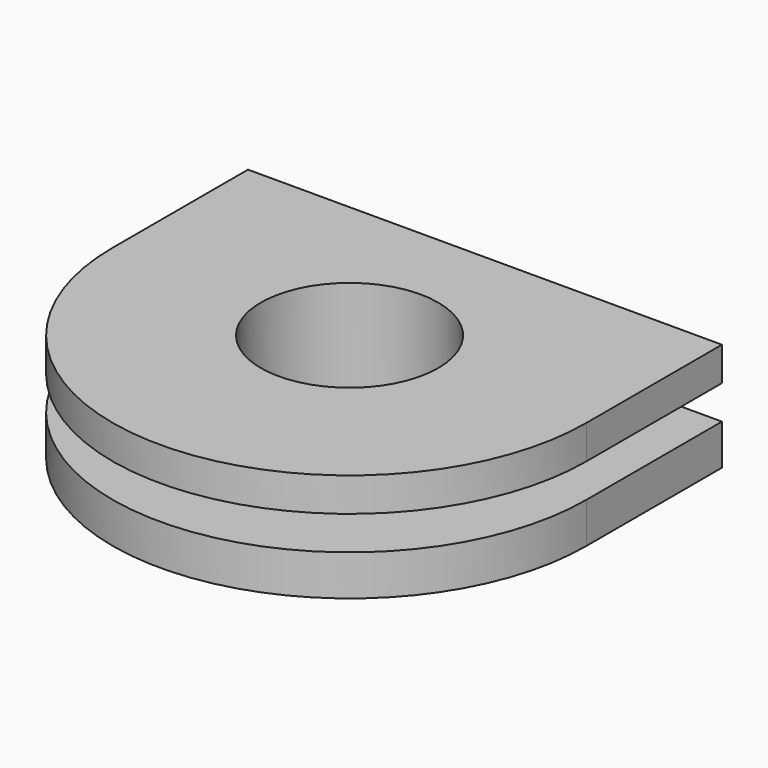
from build123d import *

# Parameters (mm, degrees)
PAD_DEPTH    = 3
PAD001_DEPTH = 2.5
PAD002_DEPTH = 2.5
SKETCH004_R  = 6.55
POCKET_DEPTH = 8.001


with BuildPart() as part:
    # Sketch001 → Pad (new body)
    with BuildSketch(Plane.XY):
        with BuildLine():
            Line((-17.5, 0), (17.5, 0))
            Line((17.5, 0), (17.5, -12.5))
            ThreePointArc((-17.5, -12.5), (0, -30), (17.5, -12.5))
            Line((-17.5, -12.5), (-17.5, 0))
        make_face()
    extrude(amount=PAD_DEPTH)

    # Sketch002 (on Face6 of Pad) → Pad001 (join)
    with BuildSketch(Plane.XY.offset(3)):
        with BuildLine():
            Line((11.5, 0), (11.5, -12.5))
            ThreePointArc((-11.5, -12.5), (0, -24), (11.5, -12.5))
            Line((-11.5, -12.5), (-11.5, 0))
            Line((-11.5, 0), (11.5, 0))
        make_face()
    extrude(amount=PAD001_DEPTH)

    # Sketch003 (on Face9 of Pad001) → Pad002 (join)
    with BuildSketch(Plane.XY.offset(5.5)):
        with BuildLine():
            Line((-17.5, 0), (17.5, 0))
            Line((17.5, 0), (17.5, -12.5))
            ThreePointArc((-17.5, -12.5), (0, -30), (17.5, -12.5))
            Line((-17.5, -12.5), (-17.5, 0))
        make_face()
    extrude(amount=PAD002_DEPTH)

    # Sketch004 (on Face12 of Pad002) → Pocket (cut, through all)
    with BuildSketch(Plane.XY.offset(8)):
        with Locations((0, -12.5)):
            Circle(SKETCH004_R)
    extrude(amount=-POCKET_DEPTH, mode=Mode.SUBTRACT)


solid = part.part
